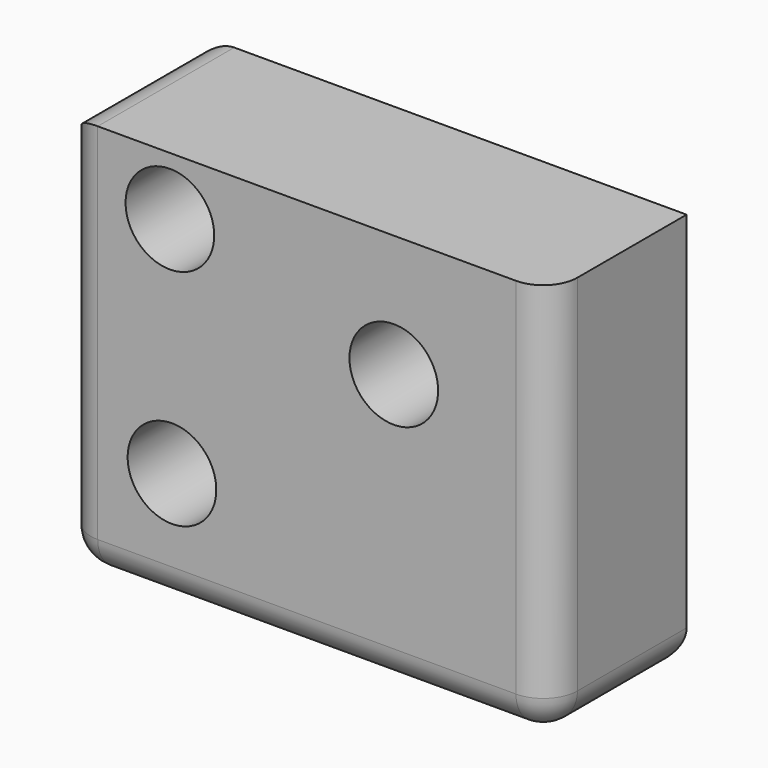
from build123d import *

# Parameters (mm, degrees)
F0_W     = 71.305797
F0_H     = 58.31974
F1_DEPTH = 25
F3_D     = 13
F3_DEPTH = 51
F4_R     = 5


with BuildPart() as f1:
    # F0 (on Front) → F1 (new body)
    with BuildSketch(Plane.XZ):
        with Locations((-100.383364, 7.697545)):
            Rectangle(F0_W, F0_H)
    extrude(amount=F1_DEPTH)

    # F3
    with Locations(Plane.XZ.offset(25)):
        with Locations((-120.461434, 28.316814), (-120.157562, -4.412703), (-87.64419, 18.950811)):
            Hole(F3_D / 2, depth=F3_DEPTH)

    # F4
    f4_edges = [f1.edges().sort_by_distance(p)[0] for p in [
        (-64.730465, -25, 7.697545),
        (-100.383364, -25, -21.462325),
        (-136.036262, -12.5, -21.462325),
        (-64.730465, -12.5, -21.462325),
        (-100.383364, 0, -21.462325),
        (-136.036262, -12.5, 36.857415),
        (-136.036262, 0, 7.697545),
        (-136.036262, -25, 7.697545),
    ]]
    fillet(f4_edges, radius=F4_R)


solid = f1.part
